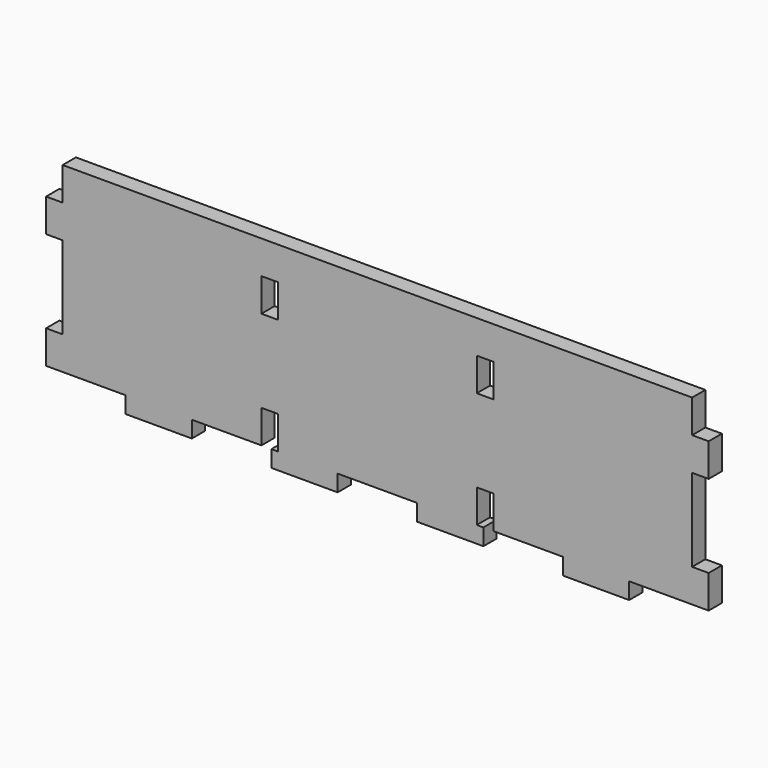
from build123d import *

# Parameters (mm, degrees)
F0_W     = 254
F0_H     = 76.2
F1_DEPTH = 6.35
F2_W     = 6.35
F2_H     = 6.35
F2_H_2   = 12.7
F2_H_3   = 31.75
F3_DEPTH = 6.35
F4_W     = 30.48
F4_H     = 6.35
F5_DEPTH = 6.351
F6_W     = 6.35
F6_H     = 12.7
F7_DEPTH = 6.351


with BuildPart() as f1:
    # F0 (on Front) → F1 (new body)
    with BuildSketch(Plane.XZ):
        with Locations((127, 38.1)):
            Rectangle(F0_W, F0_H)
    extrude(amount=F1_DEPTH)

    # F2 (on face) → F3 (cut, through all)
    with BuildSketch(Plane.XZ.offset(6.35)):
        with Locations((3.175, 3.175)):
            Rectangle(F2_W, F2_H)
        with Locations((3.175, 69.85)):
            Rectangle(F2_W, F2_H_2)
        with Locations((3.175, 34.925)):
            Rectangle(F2_W, F2_H_3)
        with Locations((250.825, 3.175)):
            Rectangle(F2_W, F2_H)
        with Locations((250.825, 34.925)):
            Rectangle(F2_W, F2_H_3)
        with Locations((250.825, 69.85)):
            Rectangle(F2_W, F2_H_2)
    extrude(amount=-F3_DEPTH, mode=Mode.SUBTRACT)

    # F4 (on face) → F5 (cut, through all)
    with BuildSketch(Plane.XZ.offset(6.35)):
        with Locations((15.24, 3.175)):
            Rectangle(F4_W, F4_H)
        with Locations((71.12, 3.175)):
            Rectangle(F4_W, F4_H)
        with Locations((127, 3.175)):
            Rectangle(F4_W, F4_H)
        with Locations((182.88, 3.175)):
            Rectangle(F4_W, F4_H)
        with Locations((238.76, 3.175)):
            Rectangle(F4_W, F4_H)
    extrude(amount=-F5_DEPTH, mode=Mode.SUBTRACT)

    # F6 (on face) → F7 (cut, through all)
    with BuildSketch(Plane.XZ.offset(6.35)):
        with Locations((85.725, 12.7)):
            Rectangle(F6_W, F6_H)
        with Locations((85.725, 57.15)):
            Rectangle(F6_W, F6_H)
        with Locations((168.275, 57.15)):
            Rectangle(F6_W, F6_H)
        with Locations((168.275, 12.7)):
            Rectangle(F6_W, F6_H)
    extrude(amount=-F7_DEPTH, mode=Mode.SUBTRACT)


solid = f1.part
